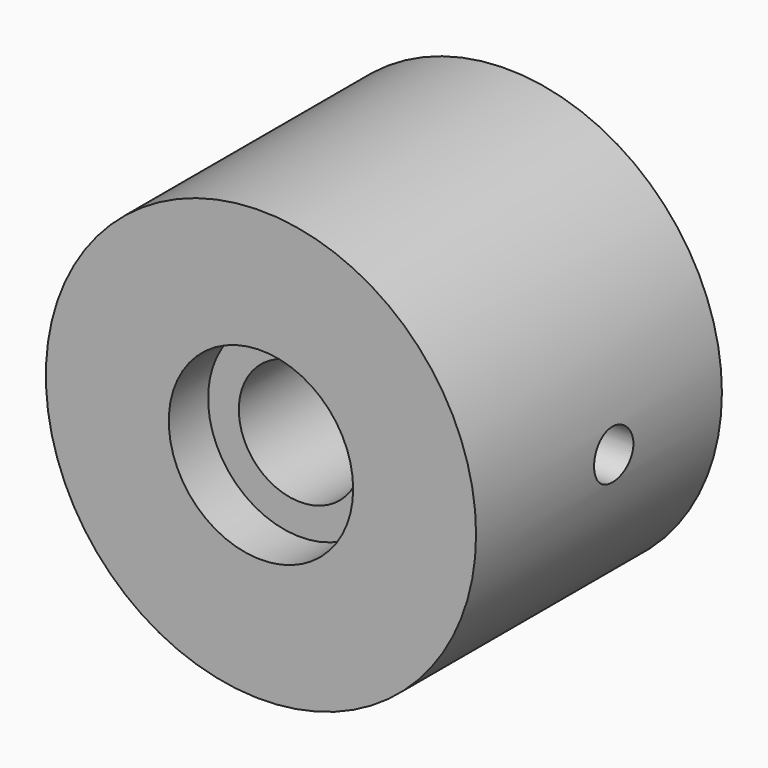
from build123d import *

# Parameters (mm, degrees)
F0_R     = 11.1125
F0_R_2   = 3.175
F1_DEPTH = 15.875
F2_R     = 4.7625
F2_R_2   = 3.175
F3_DEPTH = 2.54
F4_R     = 1.27
F5_DEPTH = 11.1135


with BuildPart() as f1:
    # F0 (on Front) → F1 (new body)
    with BuildSketch(Plane.XZ):
        Circle(F0_R)
        Circle(F0_R_2, mode=Mode.SUBTRACT)
    extrude(amount=F1_DEPTH)

    # F2 (on face) → F3 (cut)
    with BuildSketch(Plane.XZ.offset(15.875)):
        Circle(F2_R)
        Circle(F2_R_2, mode=Mode.SUBTRACT)
    extrude(amount=-F3_DEPTH, mode=Mode.SUBTRACT)

    # F4 (on Right) → F5 (cut, through all)
    with BuildSketch(Plane.YZ):
        with Locations((-6.985, 0)):
            Circle(F4_R)
    extrude(amount=F5_DEPTH, mode=Mode.SUBTRACT)


solid = f1.part
